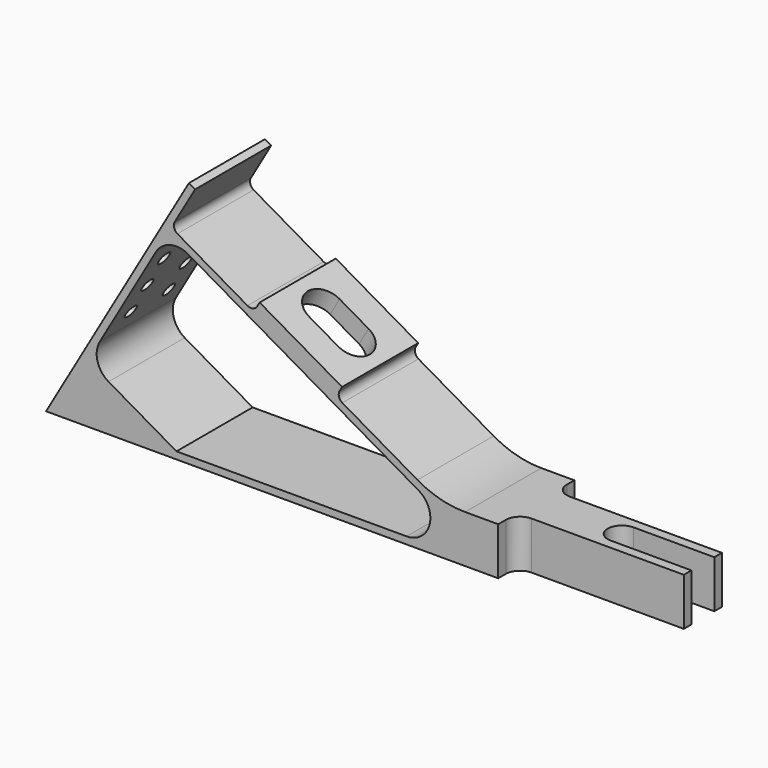
from build123d import *

# Parameters (mm, degrees)
F0_W      = 35
F0_H      = 10
F1_DEPTH  = 20
F3_DEPTH  = 25
F4_W      = 35
F4_H      = 5
F6_DEPTH  = 10.001
F7_DEPTH  = 10.001
F8_DEPTH  = 10.001
F9_R      = 3
F5_R      = 1.395
F10_DEPTH = 25
F5_R_2    = 4.25
F11_DEPTH = 112.584302492
F5_R_3    = 5.5
F12_DEPTH = 2


with BuildPart() as f1:
    # F0 (on Front) → F1 (new body)
    with BuildSketch(Plane.XZ):
        with BuildLine():
            Line((-0.9824314987, 41.1347855624), (-30.9824314987, -10.8267386647))
            Line((-30.9824314987, -10.8267386647), (64.0175685013, -10.8267386647))
            Line((64.0175685013, -10.8267386647), (64.0175685013, -0.8267386647))
            Line((64.0175685013, -0.8267386647), (57.0560442742, -0.8267386647))
            ThreePointArc((57.0560442742, -0.8267386647), (51.8796633722, -0.1452551905), (47.0560442742, 1.8527532596))
            Line((47.0560442742, 1.8527532596), (31.256660864, 10.9745315245))
            ThreePointArc((31.256660864, 10.9745315245), (30.5577721246, 11.8853410626), (30.7076227583, 13.0235696302))
            Line((30.7076227583, 13.0235696302), (31.2076227583, 13.889595034))
            Line((31.2076227583, 13.889595034), (13.8871146826, 23.889595034))
            Line((13.8871146826, 23.889595034), (13.3871146826, 23.0235696302))
            ThreePointArc((13.3871146826, 23.0235696302), (12.4763051446, 22.3246808908), (11.338076577, 22.4745315245))
            Line((11.338076577, 22.4745315245), (-3.3843552874, 30.9745315245))
            ThreePointArc((-3.3843552874, 30.9745315245), (-4.0832440268, 31.8853410626), (-3.933393393, 33.0235696302))
            Line((-3.933393393, 33.0235696302), (0.316606607, 40.3847855624))
            Line((0.316606607, 40.3847855624), (-0.9824314987, 41.1347855624))
        make_face()
        with BuildLine():
            ThreePointArc((-17.8532663741, -1.0863576079), (-20.1828955056, 1.9496741855), (-19.683393393, 5.743769411))
            Line((-19.683393393, 5.743769411), (-7.933393393, 26.0953663999))
            ThreePointArc((-7.933393393, 26.0953663999), (-4.8973615996, 28.4249955314), (-1.1032663741, 27.9254934189))
            Line((-1.1032663741, 27.9254934189), (47.2592382521, 0.0033883542))
            ThreePointArc((47.2592382521, 0.0033883542), (49.5888673835, -5.6208338902), (44.7592382521, -9.3267386647))
            Line((44.7592382521, -9.3267386647), (-3.5805077101, -9.3267386647))
            Line((-3.5805077101, -9.3267386647), (-17.8532663741, -1.0863576079))
        make_face(mode=Mode.SUBTRACT)
        with Locations((81.5175685013, -5.8267386647)):
            Rectangle(F0_W, F0_H)
    extrude(amount=F1_DEPTH)

    # F2 (on face) → F3 (cut)
    with BuildSketch(Plane(origin=(13.8162767634, 0, 23.9304933257), x_dir=(0.8660254038, 0, -0.5), z_dir=(0.5, 0, 0.8660254038))):
        with BuildLine():
            Line((13.5817965834, -6), (6.5817965834, -6))
            ThreePointArc((6.5817965834, -6), (2.5817965834, -10), (6.5817965834, -14))
            Line((6.5817965834, -14), (13.5817965834, -14))
            ThreePointArc((13.5817965834, -14), (17.5817965834, -10), (13.5817965834, -6))
        make_face()
    extrude(amount=-F3_DEPTH, mode=Mode.SUBTRACT)

    # F4 (on face) → F6 (cut, through all)
    with BuildSketch(Plane.XY.offset(-0.8267386647)):
        with Locations((81.5175685013, -2.5)):
            Rectangle(F4_W, F4_H)
    extrude(amount=-F6_DEPTH, mode=Mode.SUBTRACT)

    # F4 (on face) → F7 (cut, through all)
    with BuildSketch(Plane.XY.offset(-0.8267386647)):
        with Locations((81.5175685013, -17.5)):
            Rectangle(F4_W, F4_H)
    extrude(amount=-F7_DEPTH, mode=Mode.SUBTRACT)

    # F4 (on face) → F8 (cut, through all)
    with BuildSketch(Plane.XY.offset(-0.8267386647)):
        with BuildLine():
            Line((99.0175685013, -13), (99.0175685013, -7))
            Line((99.0175685013, -7), (82.0175685013, -7))
            ThreePointArc((82.0175685013, -7), (79.0175685013, -10), (82.0175685013, -13))
            Line((82.0175685013, -13), (99.0175685013, -13))
        make_face()
    extrude(amount=-F8_DEPTH, mode=Mode.SUBTRACT)

    # F9
    f9_edges = [f1.edges().sort_by_distance(p)[0] for p in [
        (64.017569, -5, -5.826739),
        (64.017569, -15, -5.826739),
    ]]
    fillet(f9_edges, radius=F9_R)

    # F5 (on face) → F10 (cut)
    with BuildSketch(Plane(origin=(-18.5487082622, 0, 10.7091017083), x_dir=(0, -1, 0), z_dir=(-0.8660254038, 0, 0.5))):
        with Locations((15, 7.1325535269)):
            Circle(F5_R)
        with Locations((15, 14.1325535269)):
            Circle(F5_R)
        with Locations((5, 14.1325535269)):
            Circle(F5_R)
        with Locations((5, 7.1325535269)):
            Circle(F5_R)
        with Locations((5, 0.1325535269)):
            Circle(F5_R)
        with Locations((15, 0.1325535269)):
            Circle(F5_R)
    extrude(amount=-F10_DEPTH, mode=Mode.SUBTRACT)

    # F5 (on face) → F11 (cut, through all)
    with BuildSketch(Plane(origin=(-18.5487082622, 0, 10.7091017083), x_dir=(0, -1, 0), z_dir=(-0.8660254038, 0, 0.5))):
        with Locations((10, -17.3674464731)):
            Circle(F5_R_2)
    extrude(amount=-F11_DEPTH, mode=Mode.SUBTRACT)

    # F5 (on face) → F12 (cut)
    with BuildSketch(Plane(origin=(-18.5487082622, 0, 10.7091017083), x_dir=(0, -1, 0), z_dir=(-0.8660254038, 0, 0.5))):
        with Locations((10, -17.3674464731)):
            Circle(F5_R_3)
        with Locations((10, -17.3674464731)):
            Circle(F5_R_2, mode=Mode.SUBTRACT)
    extrude(amount=-F12_DEPTH, mode=Mode.SUBTRACT)


solid = f1.part
